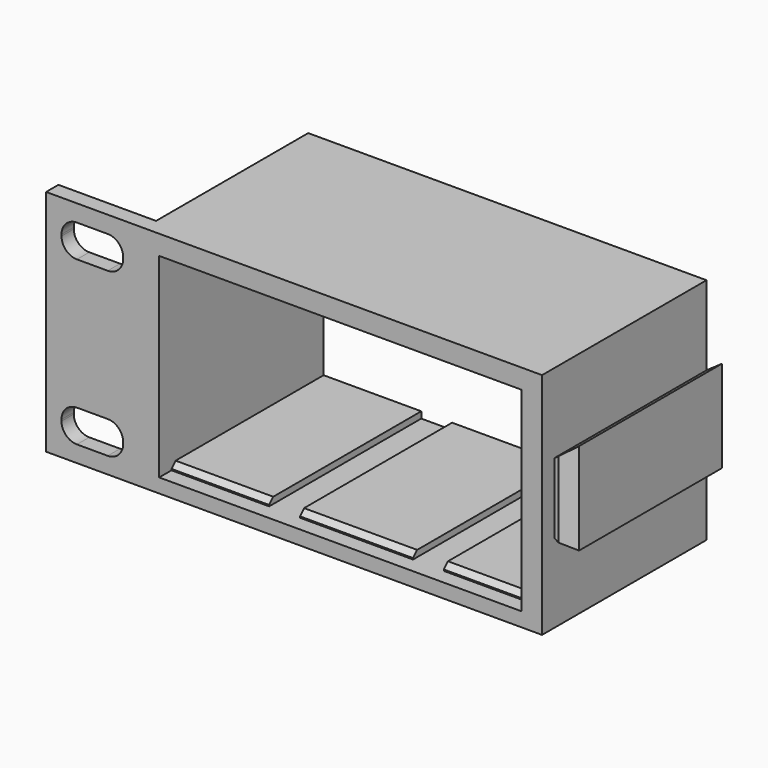
from build123d import *

# Parameters (mm, degrees)
BOX027_W               = 71
BOX027_H               = 10
BOX027_DEPTH           = 10
BOX027_PLACEMENT_ANGLE = 45
BOX022_W               = 22
BOX022_H               = 37
BOX022_DEPTH           = 4
BOX023_W               = 18
BOX023_H               = 37
BOX023_DEPTH           = 4
BOX021_W               = 19
BOX021_H               = 37
BOX021_DEPTH           = 4
BOX028_W               = 80
BOX028_H               = 10
BOX028_DEPTH           = 10
BOX028_PLACEMENT_ANGLE = 315
BOX025_W               = 3
BOX025_H               = 37
BOX025_DEPTH           = 4
BOX026_W               = 4
BOX026_H               = 37
BOX026_DEPTH           = 4
BOX024_W               = 54
BOX024_H               = 37
BOX024_DEPTH           = 4
BOX019_W               = 12
BOX019_H               = 10
BOX019_DEPTH           = 6.3
FILLET_R               = 3
BOX020_W               = 12
BOX020_H               = 10
BOX020_DEPTH           = 6.3
FILLET001_R            = 3
BOX018_W               = 19
BOX018_H               = 37
BOX018_DEPTH           = 45
BOX017_W               = 70.5
BOX017_H               = 45
BOX017_DEPTH           = 37.95
BOX016_W               = 96.5
BOX016_H               = 40
BOX016_DEPTH           = 44.5
BOX013_W               = 3
BOX013_H               = 37
BOX013_DEPTH           = 17.92
BOX013_PLACEMENT_ANGLE = 45
BOX014_W               = 3
BOX014_H               = 37
BOX014_DEPTH           = 17.92
BOX014_PLACEMENT_ANGLE = 55
BOX015_W               = 3
BOX015_H               = 37
BOX015_DEPTH           = 17.92
BOX015_PLACEMENT_ANGLE = 125
BOX012_W               = 3
BOX012_H               = 37
BOX012_DEPTH           = 17.92
CUT007_PLACEMENT_ANGLE = 180


with BuildPart() as cube027:
    # Box027 → Box027 (new body)
    with BuildSketch(Plane.XY):
        with Locations((35.5, 5)):
            Rectangle(BOX027_W, BOX027_H)
    extrude(amount=BOX027_DEPTH)


with BuildPart() as cube027_1:
    # Box027 placement: moved
    add(cube027.part.moved(Location((22, -3, 0))).rotate(Axis((22, -3, 0), (1, 0, 0)), BOX027_PLACEMENT_ANGLE))


with BuildPart() as cube022:
    # Box022 → Box022 (new body)
    with BuildSketch(Plane(origin=(47, 0, 0), x_dir=(1, 0, 0), z_dir=(0, 0, 1))):
        with Locations((11, 18.5)):
            Rectangle(BOX022_W, BOX022_H)
    extrude(amount=BOX022_DEPTH)


with BuildPart() as cube023:
    # Box023 → Box023 (new body)
    with BuildSketch(Plane(origin=(75, 0, 0), x_dir=(1, 0, 0), z_dir=(0, 0, 1))):
        with Locations((9, 18.5)):
            Rectangle(BOX023_W, BOX023_H)
    extrude(amount=BOX023_DEPTH)


with BuildPart() as cut010:
    # Box021 → Box021 (new body)
    with BuildSketch(Plane(origin=(22, 0, 0), x_dir=(1, 0, 0), z_dir=(0, 0, 1))):
        with Locations((9.5, 18.5)):
            Rectangle(BOX021_W, BOX021_H)
    extrude(amount=BOX021_DEPTH)

    # Fusion005: union Cube022, Cube023
    add(cube022.part)
    add(cube023.part)

    # Cut010: cut Cube027
    add(cube027_1.part, mode=Mode.SUBTRACT)


with BuildPart() as cube028:
    # Box028 → Box028 (new body)
    with BuildSketch(Plane.XY):
        with Locations((40, 5)):
            Rectangle(BOX028_W, BOX028_H)
    extrude(amount=BOX028_DEPTH)


with BuildPart() as cube028_1:
    # Box028 placement: moved
    add(cube028.part.moved(Location((13, -8, 35))).rotate(Axis((13, -8, 35), (1, 0, 0)), BOX028_PLACEMENT_ANGLE))


with BuildPart() as cube025:
    # Box025 → Box025 (new body)
    with BuildSketch(Plane(origin=(21.05, 0, 39.45), x_dir=(1, 0, 0), z_dir=(0, 0, 1))):
        with Locations((1.5, 18.5)):
            Rectangle(BOX025_W, BOX025_H)
    extrude(amount=BOX025_DEPTH)


with BuildPart() as cube026:
    # Box026 → Box026 (new body)
    with BuildSketch(Plane(origin=(90.05, 0, 39.45), x_dir=(1, 0, 0), z_dir=(0, 0, 1))):
        with Locations((2, 18.5)):
            Rectangle(BOX026_W, BOX026_H)
    extrude(amount=BOX026_DEPTH)


with BuildPart() as cut011:
    # Box024 → Box024 (new body)
    with BuildSketch(Plane(origin=(30.05, 0, 39.45), x_dir=(1, 0, 0), z_dir=(0, 0, 1))):
        with Locations((27, 18.5)):
            Rectangle(BOX024_W, BOX024_H)
    extrude(amount=BOX024_DEPTH)

    # Fusion006: union Cube025, Cube026
    add(cube025.part)
    add(cube026.part)

    # Cut011: cut Cube028
    add(cube028_1.part, mode=Mode.SUBTRACT)


with BuildPart() as fillet_body:
    # Box019 → Box019 (new body)
    with BuildSketch(Plane(origin=(3, -3, 3.2), x_dir=(1, 0, 0), z_dir=(0, 0, 1))):
        with Locations((6, 5)):
            Rectangle(BOX019_W, BOX019_H)
    extrude(amount=BOX019_DEPTH)

    # Fillet
    fillet_edges = [fillet_body.edges().sort_by_distance(p)[0] for p in [
        (3, 2, 9.5),
        (3, 2, 3.2),
        (15, 2, 9.5),
        (15, 2, 3.2),
    ]]
    fillet(fillet_edges, radius=FILLET_R)


with BuildPart() as fillet_body_1:
    # Fillet placement: moved
    add(fillet_body.part.moved(Location((0, -1, 0))))


with BuildPart() as fillet001:
    # Box020 → Box020 (new body)
    with BuildSketch(Plane(origin=(3, -3, 3.2), x_dir=(1, 0, 0), z_dir=(0, 0, 1))):
        with Locations((6, 5)):
            Rectangle(BOX020_W, BOX020_H)
    extrude(amount=BOX020_DEPTH)

    # Fillet001
    fillet001_edges = [fillet001.edges().sort_by_distance(p)[0] for p in [
        (3, 2, 9.5),
        (3, 2, 3.2),
        (15, 2, 9.5),
        (15, 2, 3.2),
    ]]
    fillet(fillet001_edges, radius=FILLET001_R)


with BuildPart() as fillet001_1:
    # Fillet001 placement: moved
    add(fillet001.part.moved(Location((0, -1, 31.7))))


with BuildPart() as fusion004:
    # Box018 → Box018 (new body)
    with BuildSketch(Plane.XY):
        with Locations((9.5, 18.5)):
            Rectangle(BOX018_W, BOX018_H)
    extrude(amount=BOX018_DEPTH)

    # Fusion004: union Fillet body, Fillet001
    add(fillet_body_1.part)
    add(fillet001_1.part)


with BuildPart() as cube017:
    # Box017 → Box017 (new body)
    with BuildSketch(Plane(origin=(22, -4, 2.75), x_dir=(1, 0, 0), z_dir=(0, 0, 1))):
        with Locations((35.25, 22.5)):
            Rectangle(BOX017_W, BOX017_H)
    extrude(amount=BOX017_DEPTH)


with BuildPart() as cube016:
    # Box016 → Box016 (new body)
    with BuildSketch(Plane(origin=(0, -3, 0), x_dir=(1, 0, 0), z_dir=(0, 0, 1))):
        with Locations((48.25, 20)):
            Rectangle(BOX016_W, BOX016_H)
    extrude(amount=BOX016_DEPTH)


with BuildPart() as cube013:
    # Box013 → Box013 (new body)
    with BuildSketch(Plane.XY):
        with Locations((1.5, 18.5)):
            Rectangle(BOX013_W, BOX013_H)
    extrude(amount=BOX013_DEPTH)


with BuildPart() as cube013_1:
    # Box013 placement: moved
    add(cube013.part.moved(Location((314.75, -3, 13.25))).rotate(Axis((314.75, -3, 13.25), (0, 0, 1)), BOX013_PLACEMENT_ANGLE))


with BuildPart() as cube014:
    # Box014 → Box014 (new body)
    with BuildSketch(Plane.XY):
        with Locations((1.5, 18.5)):
            Rectangle(BOX014_W, BOX014_H)
    extrude(amount=BOX014_DEPTH)


with BuildPart() as cube014_1:
    # Box014 placement: moved
    add(cube014.part.moved(Location((313, 0, 12.75))).rotate(Axis((313, 0, 12.75), (0, 1, 0)), BOX014_PLACEMENT_ANGLE))


with BuildPart() as fusion002:
    # Box015 → Box015 (new body)
    with BuildSketch(Plane.XY):
        with Locations((1.5, 18.5)):
            Rectangle(BOX015_W, BOX015_H)
    extrude(amount=BOX015_DEPTH)


with BuildPart() as fusion002_1:
    # Box015 placement: moved
    add(fusion002.part.moved(Location((313, 0, 35.35))).rotate(Axis((313, 0, 35.35), (0, 1, 0)), BOX015_PLACEMENT_ANGLE))

    # Fusion002: union Cube014
    add(cube014_1.part)


with BuildPart() as rack_left_side_shorter:
    # Box012 → Box012 (new body)
    with BuildSketch(Plane(origin=(313.75, 0, 13.25), x_dir=(1, 0, 0), z_dir=(0, 0, 1))):
        with Locations((1.5, 18.5)):
            Rectangle(BOX012_W, BOX012_H)
    extrude(amount=BOX012_DEPTH)

    # Cut006: cut Fusion002
    add(fusion002_1.part, mode=Mode.SUBTRACT)

    # Cut007: cut Cube013
    add(cube013_1.part, mode=Mode.SUBTRACT)


with BuildPart() as rack_left_side_shorter_1:
    # Cut007 placement: moved
    add(rack_left_side_shorter.part.moved(Location((413.25, 0, 44.45))).rotate(Axis((413.25, 0, 44.45), (0, 1, 0)), CUT007_PLACEMENT_ANGLE))

    # Fusion003: union Cube016
    add(cube016.part)

    # Cut008: cut Cube017
    add(cube017.part, mode=Mode.SUBTRACT)

    # Cut009: cut Fusion004
    add(fusion004.part, mode=Mode.SUBTRACT)

    # Fusion007: union Cut010, Cut011
    add(cut010.part)
    add(cut011.part)


solid = rack_left_side_shorter_1.part
